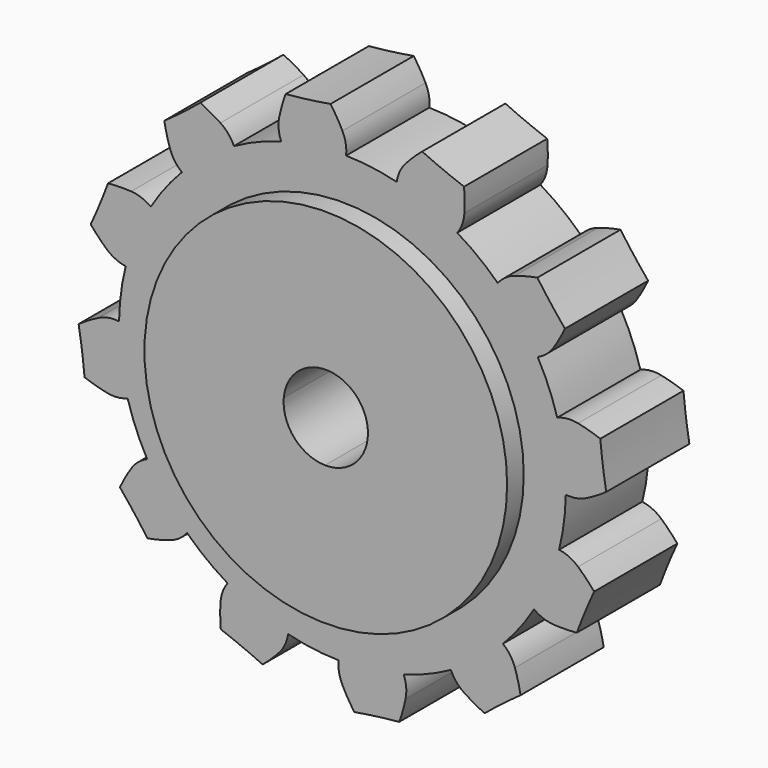
from build123d import *

# Parameters (mm, degrees)
F0_R     = 21.803991
F1_DEPTH = 12.5
F2_COUNT = 12
F3_DEPTH = 15


with BuildPart() as f1:
    # F0 (on Front) → F1 (new body)
    with BuildSketch(Plane.XZ):
        with BuildLine():
            ThreePointArc((-7.376443, 25.827786), (-16.176395, -21.443197), (26.8605, 0))
            ThreePointArc((26.8605, 0), (19.148304, 18.836903), (0.440374, 26.85689))
            ThreePointArc((0.440374, 26.85689), (-3.505999, 26.630705), (-7.376443, 25.827786))
        make_face()
        Circle(F0_R, mode=Mode.SUBTRACT)
        with BuildLine():
            ThreePointArc((-7.376443, 25.827786), (-3.505999, 26.630705), (0.440374, 26.85689))
            ThreePointArc((0.440374, 26.85689), (0.403553, 28.129504), (0, 29.337))
            ThreePointArc((0, 29.337), (-0.67184, 30.552787), (-1.42822, 31.717861))
            ThreePointArc((-1.42822, 31.717861), (-4.121867, 31.308688), (-6.829632, 31.006751))
            ThreePointArc((-6.829632, 31.006751), (-7.258695, 29.685611), (-7.592974, 28.337366))
            ThreePointArc((-7.592974, 28.337366), (-7.670253, 27.066567), (-7.376443, 25.827786))
        make_face()
    extrude(amount=F1_DEPTH)



with BuildPart() as f2_1:
    # F2: instance of F1
    add(f1.part.rotate(Axis((0, 0, 0), (0, 1, 0)), 1 * 360 / F2_COUNT))


with BuildPart() as f2_2:
    # F2: instance of F1
    add(f1.part.rotate(Axis((0, 0, 0), (0, 1, 0)), 2 * 360 / F2_COUNT))


with BuildPart() as f2_3:
    # F2: instance of F1
    add(f1.part.rotate(Axis((0, 0, 0), (0, 1, 0)), 3 * 360 / F2_COUNT))


with BuildPart() as f2_4:
    # F2: instance of F1
    add(f1.part.rotate(Axis((0, 0, 0), (0, 1, 0)), 4 * 360 / F2_COUNT))


with BuildPart() as f2_5:
    # F2: instance of F1
    add(f1.part.rotate(Axis((0, 0, 0), (0, 1, 0)), 5 * 360 / F2_COUNT))


with BuildPart() as f2_6:
    # F2: instance of F1
    add(f1.part.rotate(Axis((0, 0, 0), (0, 1, 0)), 6 * 360 / F2_COUNT))


with BuildPart() as f2_7:
    # F2: instance of F1
    add(f1.part.rotate(Axis((0, 0, 0), (0, 1, 0)), 7 * 360 / F2_COUNT))


with BuildPart() as f2_8:
    # F2: instance of F1
    add(f1.part.rotate(Axis((0, 0, 0), (0, 1, 0)), 8 * 360 / F2_COUNT))


with BuildPart() as f2_9:
    # F2: instance of F1
    add(f1.part.rotate(Axis((0, 0, 0), (0, 1, 0)), 9 * 360 / F2_COUNT))


with BuildPart() as f2_10:
    # F2: instance of F1
    add(f1.part.rotate(Axis((0, 0, 0), (0, 1, 0)), 10 * 360 / F2_COUNT))


with BuildPart() as f2_11:
    # F2: instance of F1
    add(f1.part.rotate(Axis((0, 0, 0), (0, 1, 0)), 11 * 360 / F2_COUNT))


with BuildPart() as f1_1:
    add(f1.part)

    add(f2_1.part)  # F3 merges F2_1

    add(f2_2.part)  # F3 merges F2_2

    add(f2_3.part)  # F3 merges F2_3

    add(f2_4.part)  # F3 merges F2_4

    add(f2_5.part)  # F3 merges F2_5

    add(f2_6.part)  # F3 merges F2_6

    add(f2_7.part)  # F3 merges F2_7

    add(f2_8.part)  # F3 merges F2_8

    add(f2_9.part)  # F3 merges F2_9

    add(f2_10.part)  # F3 merges F2_10

    add(f2_11.part)  # F3 merges F2_11
    # F0 (on Front) → F3 (join)
    with BuildSketch(Plane.XZ):
        Circle(F0_R)
        with BuildLine():
            ThreePointArc((5.071371, 0), (3.55472, -3.61701), (-0.088088, -5.070606))
            ThreePointArc((-0.088088, -5.070606), (-3.767643, -3.394653), (-5.052327, 0.439082))
            ThreePointArc((-5.052327, 0.439082), (-2.054693, 4.63649), (3.068356, 4.03782))
            ThreePointArc((3.068356, 4.03782), (4.543103, 2.253667), (5.071371, 0))
        make_face(mode=Mode.SUBTRACT)
    extrude(amount=F3_DEPTH)


solid = f1_1.part
